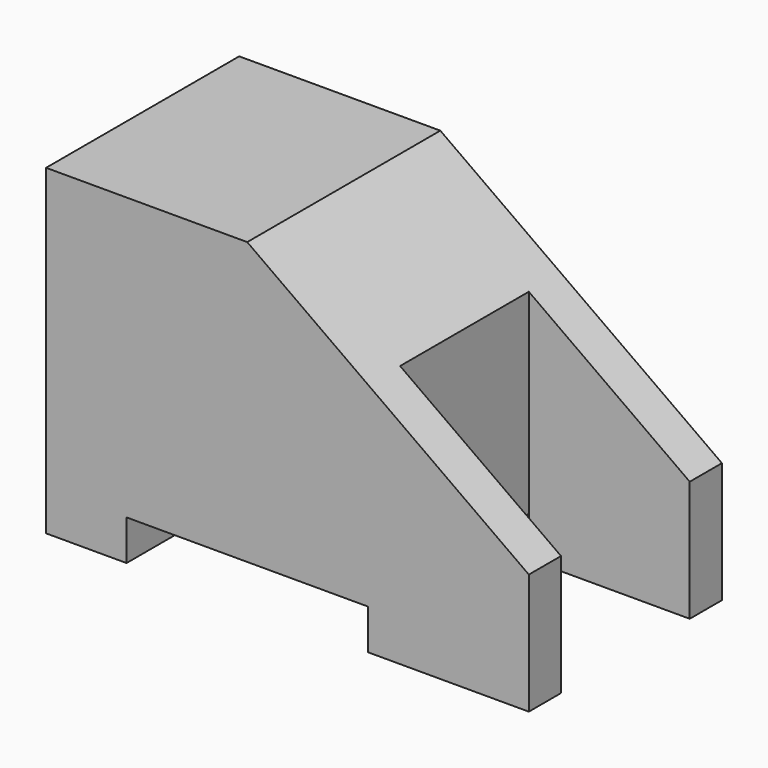
from build123d import *

# Parameters (mm, degrees)
F0_W     = 60
F0_H     = 40
F1_DEPTH = 30
F2_W     = 30
F2_H     = 5
F3_DEPTH = 30.001
F5_W     = 20
F5_H     = 30
F6_DEPTH = 20


with BuildPart() as f1:
    # F0 (on Front) → F1 (new body)
    with BuildSketch(Plane.XZ):
        with Locations((30, 20)):
            Rectangle(F0_W, F0_H)
    extrude(amount=-F1_DEPTH)

    # F2 (on face) → F3 (cut, through all)
    with BuildSketch(Plane.XZ):
        with Locations((25, 2.5)):
            Rectangle(F2_W, F2_H)
        Polygon((60, 40), (25, 40), (60, 15), align=None)
    extrude(amount=-F3_DEPTH, mode=Mode.SUBTRACT)

    # F5 (on offset) → F6 (cut)
    with BuildSketch(Plane.YZ.offset(60)):
        with Locations((15, 15)):
            Rectangle(F5_W, F5_H)
    extrude(amount=-F6_DEPTH, mode=Mode.SUBTRACT)


solid = f1.part
